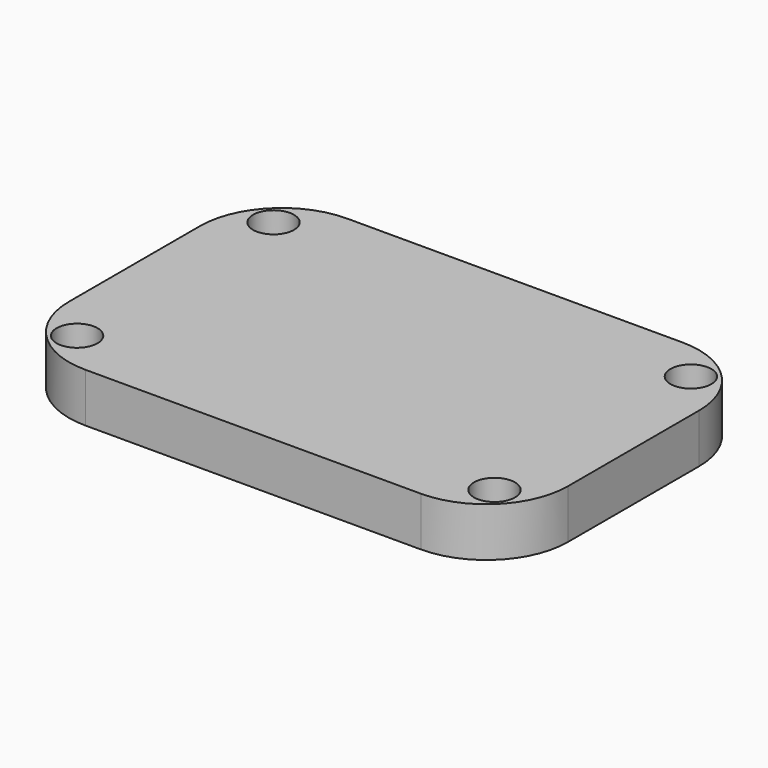
from build123d import *

# Parameters (mm, degrees)
F0_W     = 3098.8
F0_H     = 2032
F0_R     = 127
F1_DEPTH = 304.8
F2_R     = 508


with BuildPart() as f1:
    # F0 (on Top) → F1 (new body)
    with BuildSketch(Plane.XY):
        Rectangle(F0_W, F0_H)
        with Locations((-1295.4, -762)):
            Circle(F0_R, mode=Mode.SUBTRACT)
        with Locations((1295.4, -762)):
            Circle(F0_R, mode=Mode.SUBTRACT)
        with Locations((-1295.4, 762)):
            Circle(F0_R, mode=Mode.SUBTRACT)
        with Locations((1295.4, 762)):
            Circle(F0_R, mode=Mode.SUBTRACT)
    extrude(amount=F1_DEPTH)

    # F2
    f2_edges = [f1.edges().sort_by_distance(p)[0] for p in [
        (1549.4, 1016, 152.4),
        (1549.4, -1016, 152.4),
        (-1549.4, 1016, 152.4),
        (-1549.4, -1016, 152.4),
    ]]
    fillet(f2_edges, radius=F2_R)


solid = f1.part
